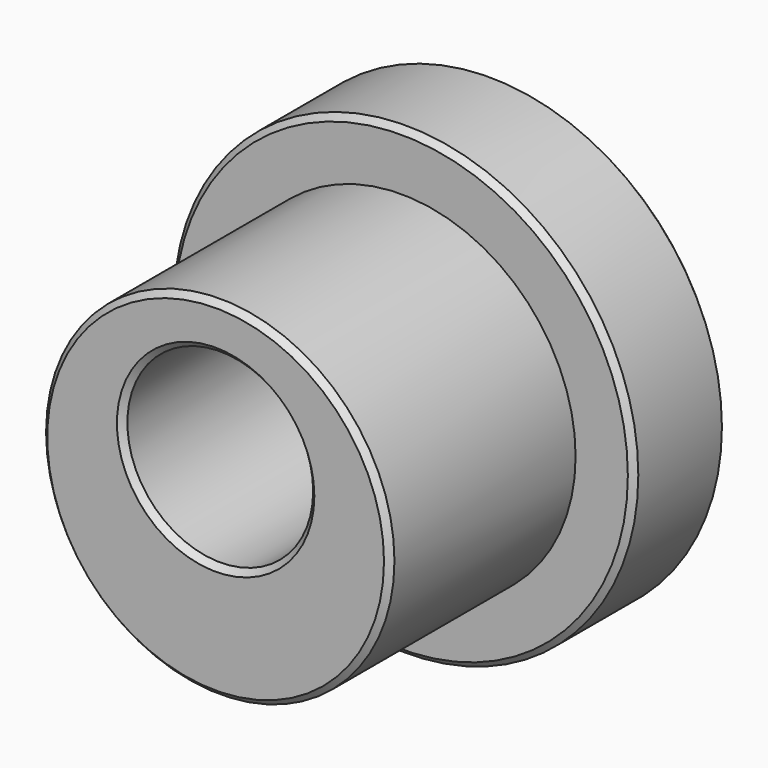
from build123d import *

# Parameters (mm, degrees)
F0_R     = 20
F1_DEPTH = 10
F2_R     = 15
F3_DEPTH = 20
F4_R     = 8
F5_DEPTH = 25
F6_SIZE  = 0.5


with BuildPart() as f1:
    # F0 (on Front) → F1 (new body)
    with BuildSketch(Plane.XZ):
        Circle(F0_R)
    extrude(amount=F1_DEPTH)

    # F2 (on face) → F3 (join)
    with BuildSketch(Plane.XZ.offset(10)):
        Circle(F2_R)
    extrude(amount=F3_DEPTH)

    # F4 (on face) → F5 (cut)
    with BuildSketch(Plane.XZ.offset(30)):
        with Locations((0, 3)):
            Circle(F4_R)
    extrude(amount=-F5_DEPTH, mode=Mode.SUBTRACT)

    # F6
    f6_edges = [f1.edges().sort_by_distance(p)[0] for p in [
        (-15, -30, 0),
        (-20, -10, 0),
        (-20, 0, 0),
        (-8, -30, 3),
    ]]
    chamfer(f6_edges, length=F6_SIZE)


solid = f1.part
